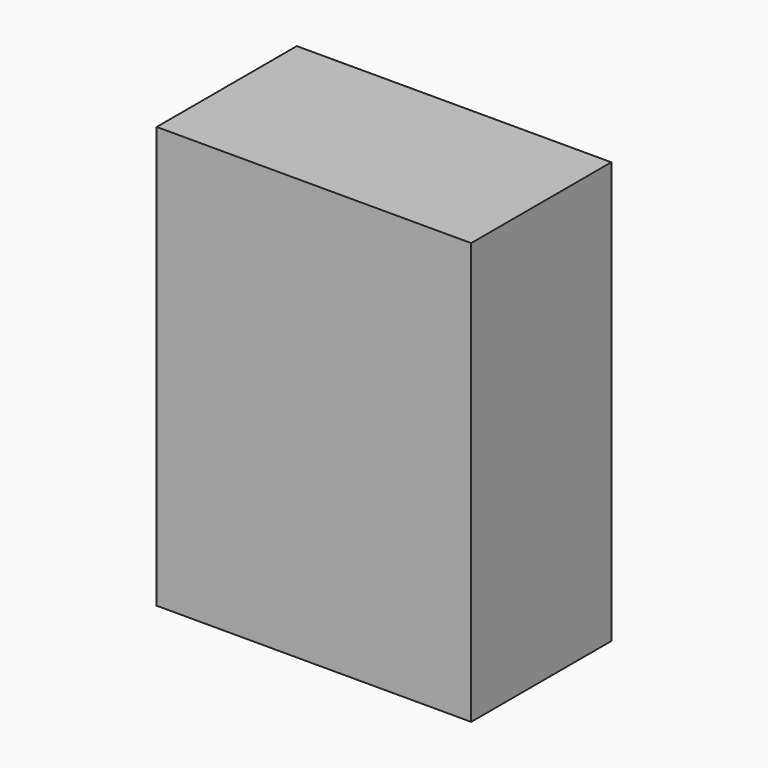
from build123d import *

# Parameters (mm, degrees)
F0_W       = 406.4
F0_H       = 544.7211598467
F2_DEPTH   = 179.832
F3_W       = 406.4
F3_H       = 544.7211598467
F4_DEPTH   = 171.704
F6_W       = 406.4
F6_H       = 544.7211598467
F4_FACE_W  = 406.4
F4_FACE_H  = 544.7211598467
F1_W       = 406.4
F1_H       = 544.7211598467
F2_FACE1_W = 406.4
F2_FACE1_H = 544.7211598467
F7_DEPTH   = 218.186


with BuildPart() as f2:
    # F0 (on Front) → F2 (new body)
    with BuildSketch(Plane.XZ):
        with Locations((-105.1295921206, -41.2003919482)):
            Rectangle(F0_W, F0_H)
    extrude(amount=F2_DEPTH)

    # F3 (on face) → F4 (cut)
    with BuildSketch(Plane.XZ.offset(179.832)):
        with Locations((-105.1295921206, -41.2003919482)):
            Rectangle(F3_W, F3_H)
    extrude(amount=-F4_DEPTH, mode=Mode.SUBTRACT)

    # F6 (on face) + F4_face (on face) + F1 (on face) + F2_face1 (on face) → F7 (join)
    with BuildSketch(Plane.XZ):
        with Locations((-105.1295921206, -41.2003919482)):
            Rectangle(F6_W, F6_H)
    with BuildSketch(Plane(origin=(-105.1295921206, -8.128, -41.2003919482), x_dir=(1, 0, 0), z_dir=(0, -1, 0))):
        Rectangle(F4_FACE_W, F4_FACE_H)
    with BuildSketch(Plane.XZ):
        with Locations((-105.1295921206, -41.2003919482)):
            Rectangle(F1_W, F1_H)
    with BuildSketch(Plane(origin=(-105.1295921206, 0, -41.2003919482), x_dir=(1, 0, 0), z_dir=(0, 1, 0))):
        Rectangle(F2_FACE1_W, F2_FACE1_H)
    extrude(amount=F7_DEPTH, dir=(0, -1, 0))


solid = f2.part
